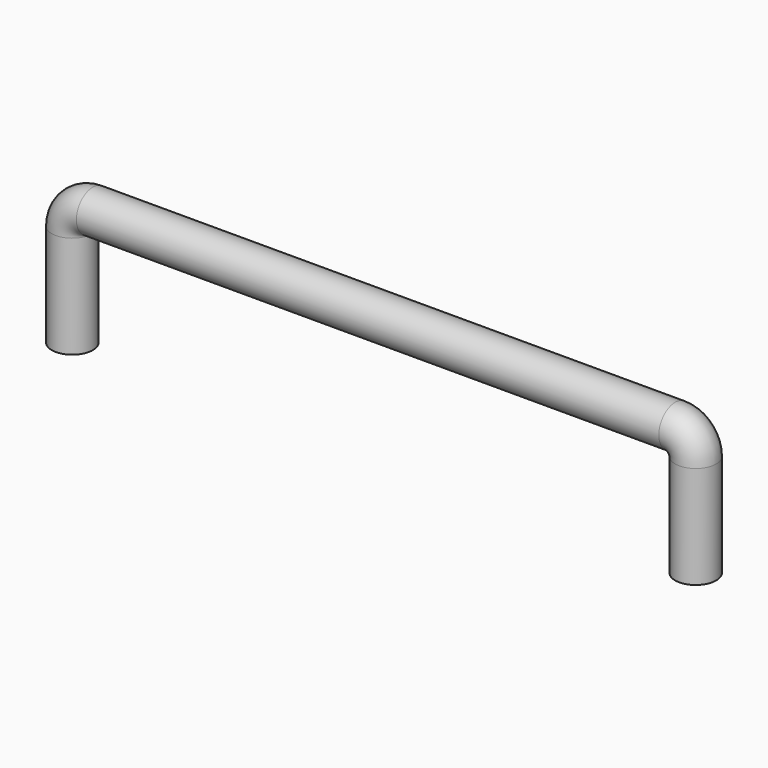
from build123d import *

# Parameters (mm, degrees)
F2_R = 1.5


with BuildPart() as f3:
    # F3: sweep along a path in F0
    with BuildLine(Plane.XZ) as f3_path:
        Line((45.6, 0), (45.6, 7.5))
        ThreePointArc((45.6, 7.5), (45.1606601718, 8.5606601718), (44.1, 9))
        Line((44.1, 9), (1.5, 9))
        ThreePointArc((1.5, 9), (0.4393398282, 8.5606601718), (0, 7.5))
        Line((0, 7.5), (0, 0))
    # F2 (on line) → F3 (sweep)
    with BuildSketch(Plane(origin=(0, 0, 0), x_dir=(1, 0, 0), z_dir=(0, 0, -1))):
        with Locations((45.6, 0)):
            Circle(F2_R)
    sweep(path=f3_path.line)


solid = f3.part
